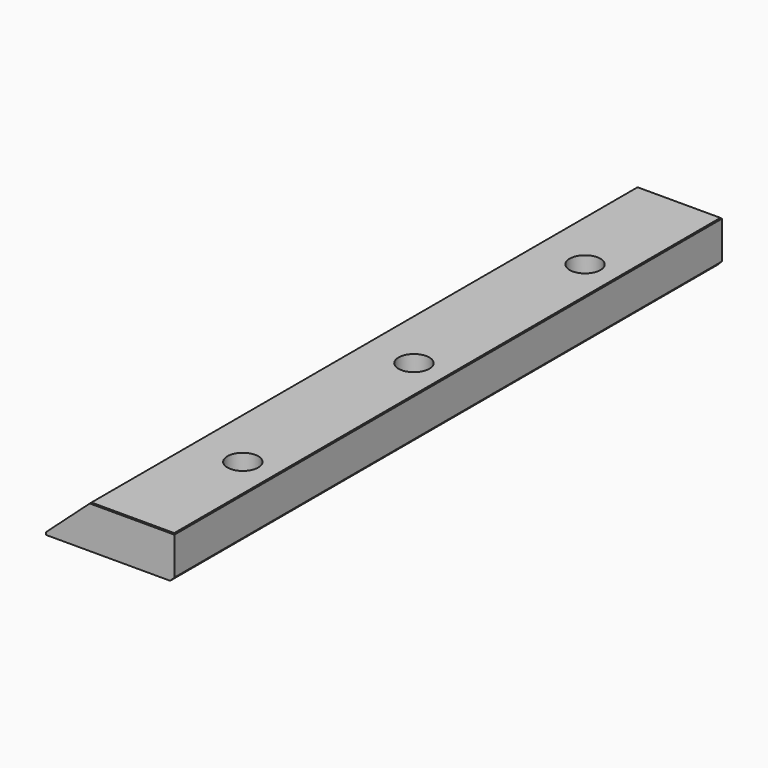
from build123d import *

# Parameters (mm, degrees)
F1_DEPTH = 80
F2_R     = 1.8
F3_DEPTH = 5.001
F4_SIZE  = 0.5
F5_SIZE  = 0.1


with BuildPart() as f1:
    # F0 (on Front) → F1 (new body)
    with BuildSketch(Plane.XZ):
        Polygon((0, 0.3), (0, 0), (15, 0), (15, 5), (5.219879, 5), align=None)
    extrude(amount=F1_DEPTH)

    # F2 (on face) → F3 (cut, through all)
    with BuildSketch(Plane.XY.offset(5)):
        with Locations((11, -40)):
            Circle(F2_R)
        with Locations((11, -15)):
            Circle(F2_R)
        with Locations((11, -65)):
            Circle(F2_R)
    extrude(amount=-F3_DEPTH, mode=Mode.SUBTRACT)

    # F4
    f4_edges = [f1.edges().sort_by_distance(p)[0] for p in [
        (15, -40, 0),
    ]]
    chamfer(f4_edges, length=F4_SIZE)

    # F5
    f5_edges = [f1.edges().sort_by_distance(p)[0] for p in [
        (15, -40, 5),
        (10.109939, -80, 5),
        (10.109939, 0, 5),
    ]]
    chamfer(f5_edges, length=F5_SIZE)


solid = f1.part
